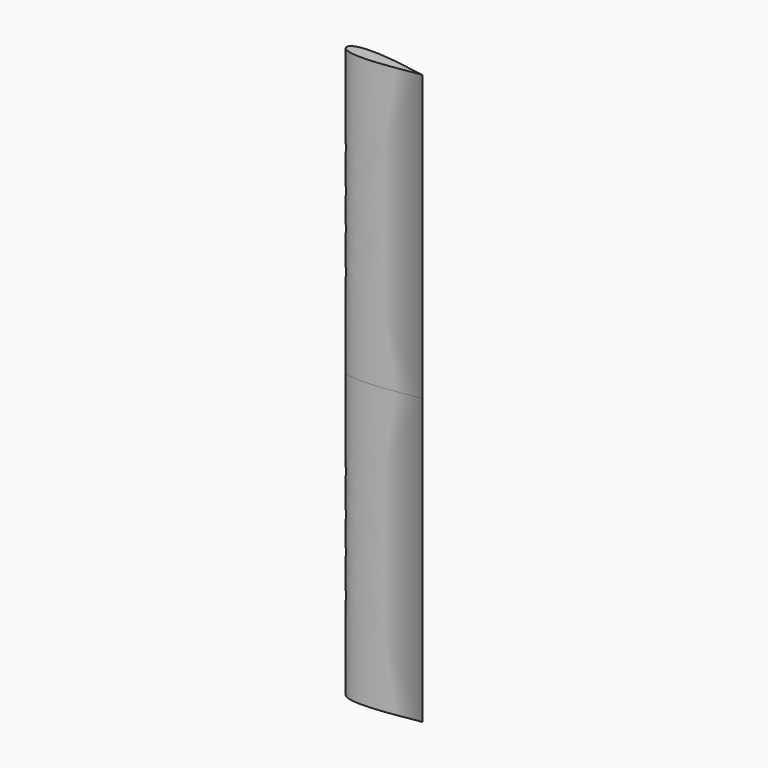
from build123d import *

# Parameters (mm, degrees)
F1_DEPTH = 381


with BuildPart() as f1:
    # F0 (on Top) → F1 (new body, symmetric)
    with BuildSketch(Plane.XY):
        with BuildLine():
            add(Edge.make_bspline(
                [(0, 0), (0, 4.3147587058), (20.7193008789, 13.8252956372), (71.5615302324, 4.9369949847), (101.2619266109, 0)],
                knots=[0, 0, 0, 0, 0.3153629708, 1, 1, 1, 1], degree=3))
            add(Edge.make_bspline(
                [(0, 0), (0, -4.3147587058), (20.7193008789, -13.8252956372), (71.5615302324, -4.9369949847), (101.2619266109, 0)],
                knots=[0, 0, 0, 0, 0.3153629708, 1, 1, 1, 1], degree=3))
        make_face()
    extrude(amount=F1_DEPTH, both=True)


solid = f1.part
